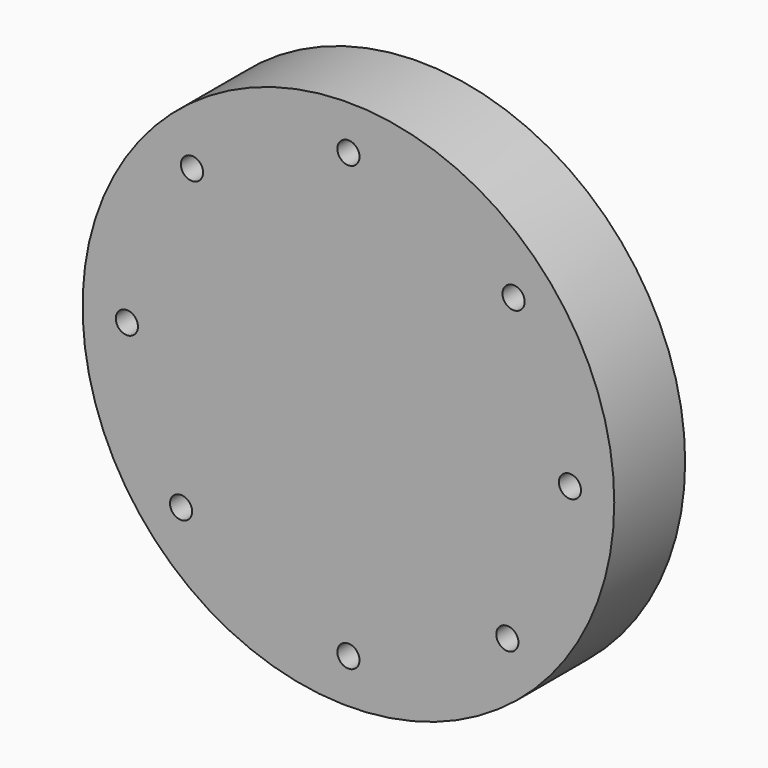
from build123d import *

# Parameters (mm, degrees)
F0_R     = 76.2
F0_R_2   = 3.175
F1_DEPTH = 25.4


with BuildPart() as f1:
    # F0 (on Front) → F1 (new body)
    with BuildSketch(Plane.XZ):
        Circle(F0_R)
        with Locations((-47.974952, -41.601129)):
            Circle(F0_R_2, mode=Mode.SUBTRACT)
        with Locations((0, -63.5)):
            Circle(F0_R_2, mode=Mode.SUBTRACT)
        with Locations((45.559137, -44.233642)):
            Circle(F0_R_2, mode=Mode.SUBTRACT)
        with Locations((-63.5, 0)):
            Circle(F0_R_2, mode=Mode.SUBTRACT)
        with Locations((-44.840984, 44.961497)):
            Circle(F0_R_2, mode=Mode.SUBTRACT)
        with Locations((63.5, 0)):
            Circle(F0_R_2, mode=Mode.SUBTRACT)
        with Locations((0, 63.5)):
            Circle(F0_R_2, mode=Mode.SUBTRACT)
        with Locations((47.330334, 42.333078)):
            Circle(F0_R_2, mode=Mode.SUBTRACT)
    extrude(amount=F1_DEPTH)


solid = f1.part
